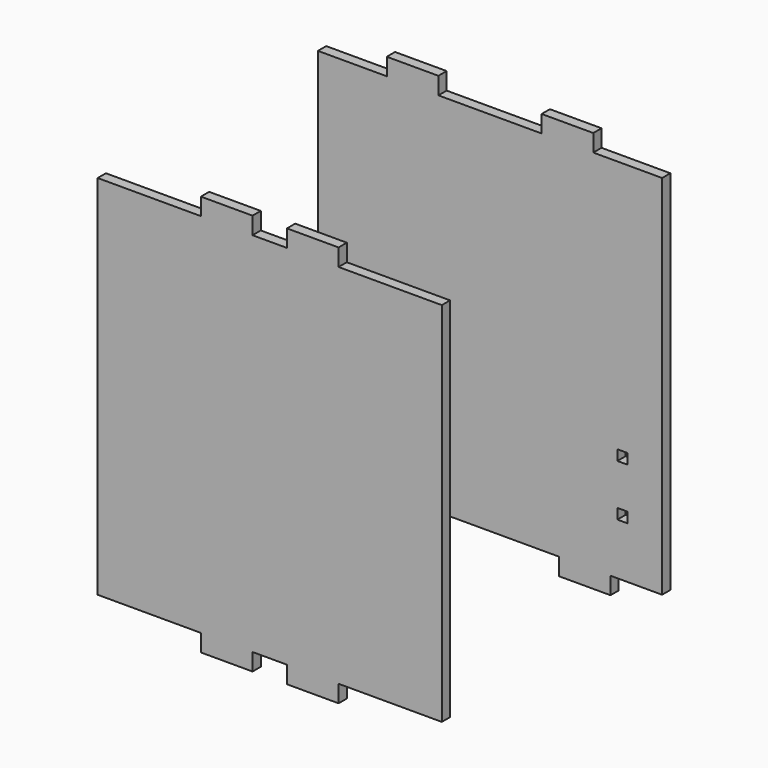
from build123d import *

# Parameters (mm, degrees)
F0_W     = 3
F0_H     = 3
F1_DEPTH = 3
F4_DEPTH = 3


with BuildPart() as f1:
    # F0 (on Front) → F1 (new body)
    with BuildSketch(Plane.XZ):
        Polygon((-30, 53.3), (-50, 53.3), (-50, -53.3), (-35, -53.3), (-35, -58.3), (-20, -58.3), (-20, -53.3), (20, -53.3), (20, -58.3), (35, -58.3), (35, -53.3), (50, -53.3), (50, 53.3), (30, 53.3), (30, 58.3), (15, 58.3), (15, 53.3), (-15, 53.3), (-15, 58.3), (-30, 58.3), align=None)
        with Locations((-38.5, -36.8)):
            Rectangle(F0_W, F0_H, mode=Mode.SUBTRACT)
        with Locations((-38.5, -21.8)):
            Rectangle(F0_W, F0_H, mode=Mode.SUBTRACT)
        with Locations((38.5, -36.8)):
            Rectangle(F0_W, F0_H, mode=Mode.SUBTRACT)
        with Locations((38.5, -21.8)):
            Rectangle(F0_W, F0_H, mode=Mode.SUBTRACT)
    extrude(amount=F1_DEPTH)


with BuildPart() as f4:
    # F3 (on offset) → F4 (new body)
    with BuildSketch(Plane.XZ.offset(80)):
        Polygon((-20, 53.3), (-50, 53.3), (-50, -53.3), (-20, -53.3), (-20, -58.3), (-5, -58.3), (-5, -53.3), (5, -53.3), (5, -58.3), (20, -58.3), (20, -53.3), (50, -53.3), (50, 53.3), (20, 53.3), (20, 58.3), (5, 58.3), (5, 53.3), (-5, 53.3), (-5, 58.3), (-20, 58.3), align=None)
    extrude(amount=F4_DEPTH)


solid = Compound([f1.part, f4.part])
